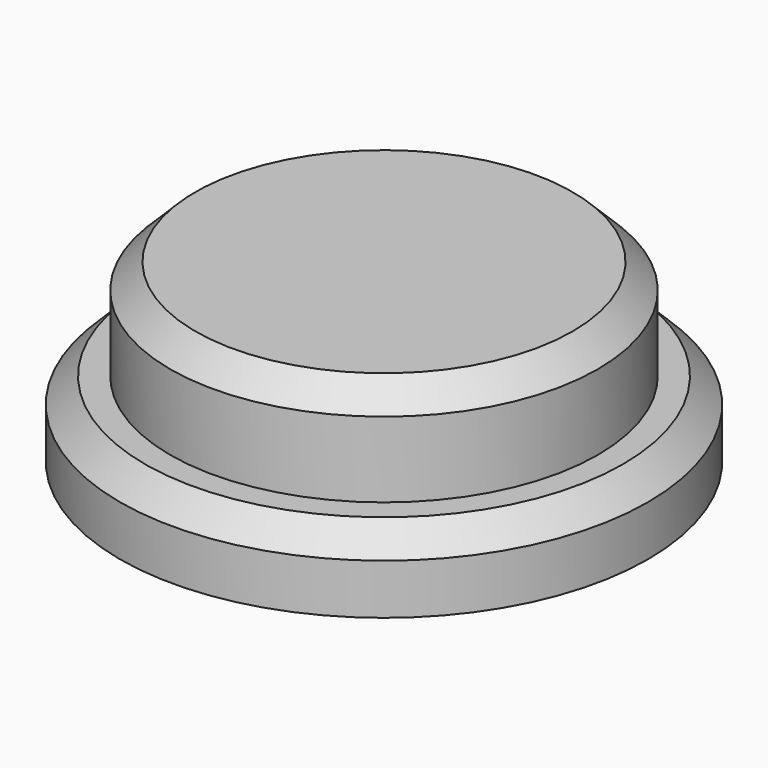
from build123d import *

# Parameters (mm, degrees)
F0_R     = 8.334375
F1_DEPTH = 2.38125
F2_R     = 6.746875
F3_DEPTH = 3.175
F4_SIZE  = 0.79375


with BuildPart() as f1:
    # F0 (on Top) → F1 (new body)
    with BuildSketch(Plane.XY):
        Circle(F0_R)
    extrude(amount=F1_DEPTH)

    # F2 (on face) → F3 (join)
    with BuildSketch(Plane.XY.offset(2.38125)):
        Circle(F2_R)
    extrude(amount=F3_DEPTH)

    # F4
    f4_edges = [f1.edges().sort_by_distance(p)[0] for p in [
        (-8.334375, 0, 2.38125),
        (-6.746875, 0, 5.55625),
    ]]
    chamfer(f4_edges, length=F4_SIZE)


solid = f1.part
